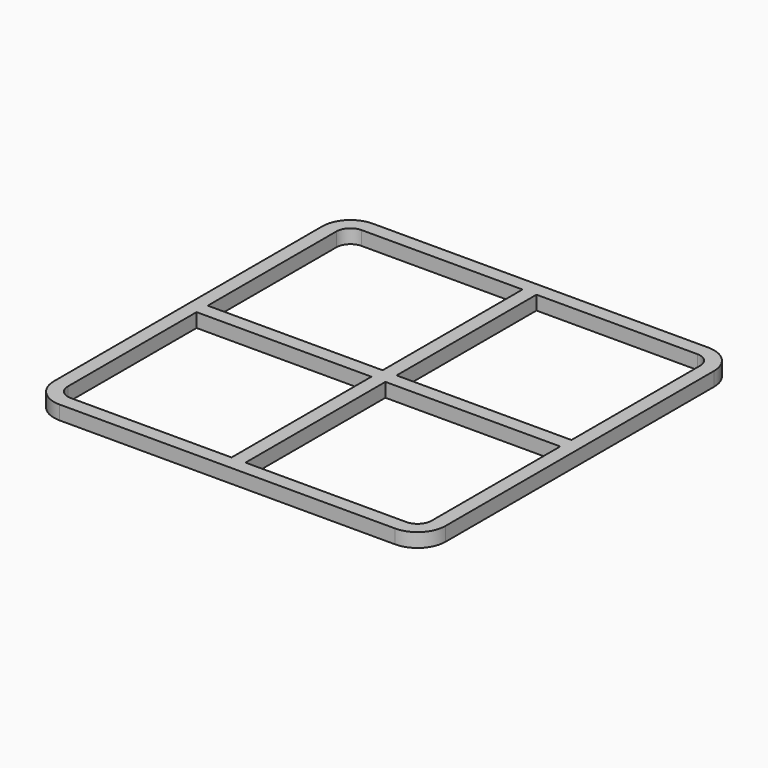
from build123d import *

# Parameters (mm, degrees)
F0_W     = 35.56
F0_H     = 35.56
F0_W_2   = 15.875
F0_H_2   = 15.875
F1_DEPTH = 1.27
F2_R     = 2.54
F3_R     = 1.27


with BuildPart() as f1:
    # F0 (on Top) → F1 (new body)
    with BuildSketch(Plane.XY):
        Rectangle(F0_W, F0_H)
        with Locations((-8.5725, -8.5725)):
            Rectangle(F0_W_2, F0_H_2, mode=Mode.SUBTRACT)
        with Locations((8.5725, -8.5725)):
            Rectangle(F0_W_2, F0_H_2, mode=Mode.SUBTRACT)
        with Locations((-8.5725, 8.5725)):
            Rectangle(F0_W_2, F0_H_2, mode=Mode.SUBTRACT)
        with Locations((8.5725, 8.5725)):
            Rectangle(F0_W_2, F0_H_2, mode=Mode.SUBTRACT)
    extrude(amount=-F1_DEPTH)

    # F2
    f2_edges = [f1.edges().sort_by_distance(p)[0] for p in [
        (-17.78, -17.78, -0.635),
        (17.78, -17.78, -0.635),
        (17.78, 17.78, -0.635),
        (-17.78, 17.78, -0.635),
    ]]
    fillet(f2_edges, radius=F2_R)

    # F3
    f3_edges = [f1.edges().sort_by_distance(p)[0] for p in [
        (-16.51, 16.51, -0.635),
        (16.51, 16.51, -0.635),
        (16.51, -16.51, -0.635),
        (-16.51, -16.51, -0.635),
    ]]
    fillet(f3_edges, radius=F3_R)


solid = f1.part
